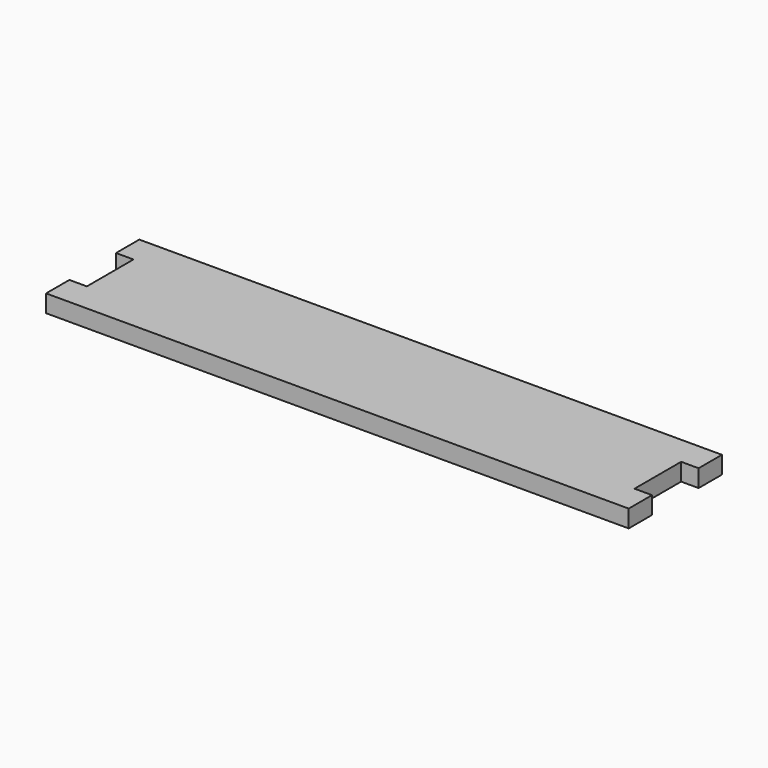
from build123d import *

# Parameters (mm, degrees)
F0_W     = 200
F0_H     = 40
F1_DEPTH = 6
F2_W     = 6
F2_H     = 20
F3_DEPTH = 6


with BuildPart() as f1:
    # F0 (on Top) → F1 (new body)
    with BuildSketch(Plane.XY):
        Rectangle(F0_W, F0_H)
    extrude(amount=F1_DEPTH)

    # F2 (on face) → F3 (cut, through all)
    with BuildSketch(Plane.XY.offset(6)):
        with Locations((97, 0)):
            Rectangle(F2_W, F2_H)
        with Locations((-97, 0)):
            Rectangle(F2_W, F2_H)
    extrude(amount=-F3_DEPTH, mode=Mode.SUBTRACT)


solid = f1.part
